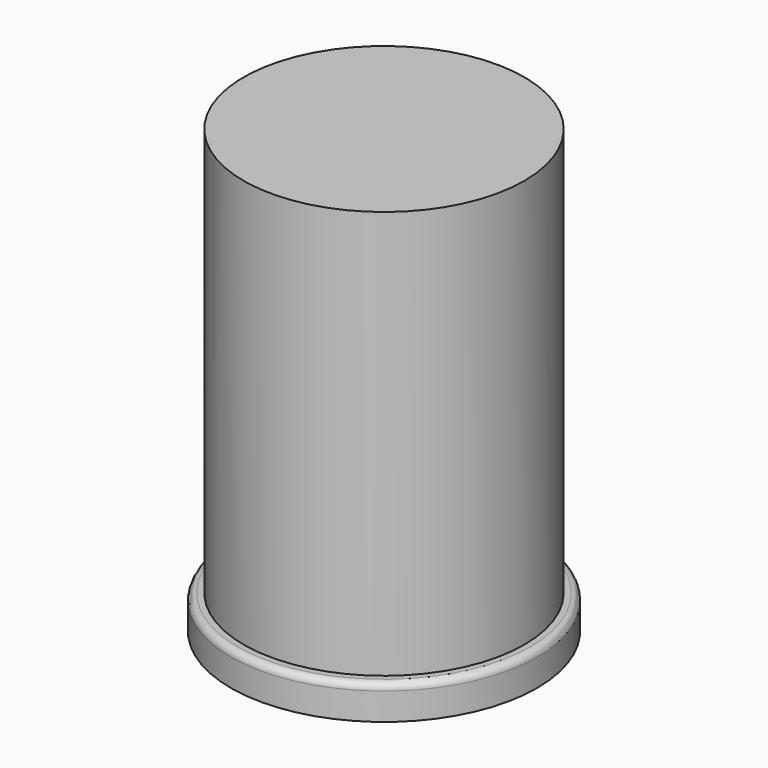
from build123d import *

# Parameters (mm, degrees)
F0_R     = 8.25
F1_DEPTH = 24
F2_R     = 9
F2_R_2   = 8.25
F3_DEPTH = 2
F4_R     = 0.4


with BuildPart() as f1:
    # F0 (on Top) → F1 (new body)
    with BuildSketch(Plane.XY):
        Circle(F0_R)
    extrude(amount=F1_DEPTH)


with BuildPart() as f3:
    # F2 (on face) → F3 (new body)
    with BuildSketch(Plane(origin=(0, 0, 0), x_dir=(1, 0, 0), z_dir=(0, 0, -1))):
        Circle(F2_R)
        Circle(F2_R_2, mode=Mode.SUBTRACT)
    extrude(amount=F3_DEPTH)

    # F4
    f4_edges = [f3.edges().sort_by_distance(p)[0] for p in [
        (-9, 0, 0),
    ]]
    fillet(f4_edges, radius=F4_R)


solid = Compound([f1.part, f3.part])
